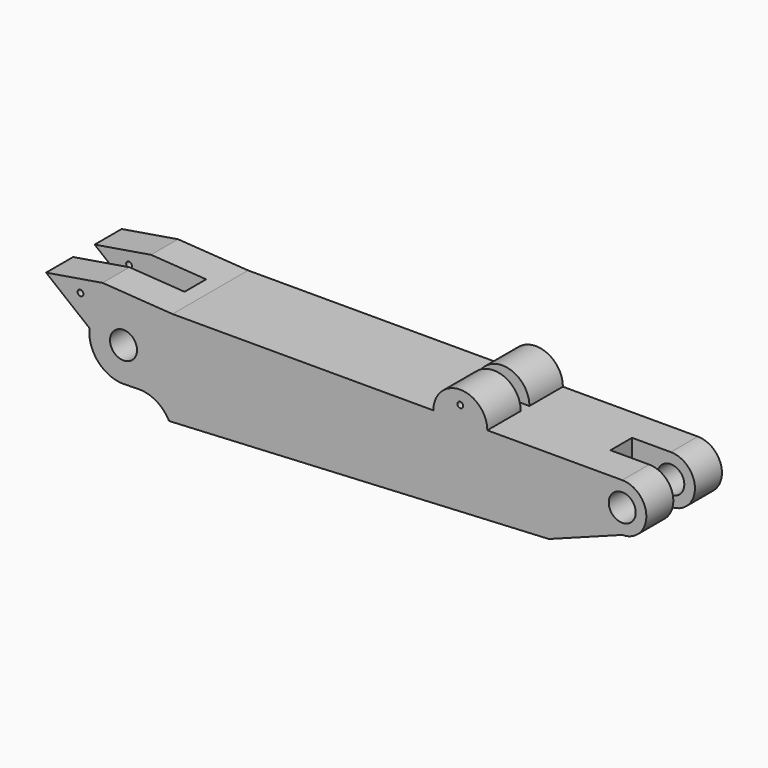
from build123d import *

# Parameters (mm, degrees)
F1_R          = 10
F1_R_2        = 2.125
F2_DEPTH      = 70
F3_W          = 130.2564469211
F3_H          = 20
F3_W_2        = 25.4596173763
F3_W_3        = 28.8759171963
F4_DEPTH      = 100
F4_DEPTH_BACK = 100
F5_R          = 2.125
F6_DEPTH      = 70
F9_DEPTH      = 4


with BuildPart() as f2:
    # F1 (on Front) → F2 (new body)
    with BuildSketch(Plane.XZ):
        with BuildLine():
            Line((333.3, 0), (0, 0))
            Line((0, 0), (-40.7109649446, -7.1784415304))
            ThreePointArc((-40.7109649446, -7.1784415304), (-54.7650426184, -14.7715124925), (-61.4796391993, -29.2658568603))
            ThreePointArc((-61.4796391993, -29.2658568603), (-54.9671092091, -49.2553101365), (-35.6024128261, -57.4406521057))
            Line((-35.6024128261, -57.4406521057), (-25.606345873, -57.1602141095))
            ThreePointArc((-25.606345873, -57.1602141095), (-12.1544941746, -60.6052272274), (-2.5623294895, -70.6456856906))
            Line((-2.5623294895, -70.6456856906), (278.9276717153, -56.0849576382))
            Line((278.9276717153, -56.0849576382), (333.3, -35.7395332009))
            ThreePointArc((333.3, -35.7395332009), (351.1697666005, -17.8697666005), (333.3, 0))
        make_face()
        with Locations((-36.3127197699, -32.1221294279)):
            Circle(F1_R, mode=Mode.SUBTRACT)
        with Locations((333.3, -17.8697666005)):
            Circle(F1_R, mode=Mode.SUBTRACT)
        with BuildLine():
            Line((-40.7109649446, -7.1784415304), (0, 0))
            Line((0, 0), (-51.8790856004, 3.4624293912))
            Line((-51.8790856004, 3.4624293912), (-93.7052443624, -3.4624293912))
            Line((-93.7052443624, -3.4624293912), (-61.4796391993, -29.2658568603))
            ThreePointArc((-61.4796391993, -29.2658568603), (-54.7650426184, -14.7715124925), (-40.7109649446, -7.1784415304))
        make_face()
        with Locations((-68.2217553258, -8.4483278915)):
            Circle(F1_R_2, mode=Mode.SUBTRACT)
    extrude(amount=F2_DEPTH)

    # F3 (on Top) → F4 (cut, two sides)
    with BuildSketch(Plane.XY) as f4_sk:
        with Locations((-76.2078319233, -35)):
            Rectangle(F3_W, F3_H)
        with Locations((346.1741060019, -35)):
            Rectangle(F3_W_2, F3_H)
        with Locations((319.0063387156, -35)):
            Rectangle(F3_W_3, F3_H)
    extrude(amount=F4_DEPTH, mode=Mode.SUBTRACT)
    extrude(f4_sk.sketch, amount=-F4_DEPTH_BACK, mode=Mode.SUBTRACT)

    # F5 (on Front) → F6 (join)
    with BuildSketch(Plane.XZ):
        with BuildLine():
            Line((213.3, 0), (233.3, 0))
            ThreePointArc((233.3, 0), (213.3, 20), (193.3, 0))
            Line((193.3, 0), (213.3, 0))
        make_face()
        with Locations((213.3, 10)):
            Circle(F5_R, mode=Mode.SUBTRACT)
    extrude(amount=F6_DEPTH)

    # F8 (on offset) → F9 (cut, symmetric)
    with BuildSketch(Plane.XZ.offset(35)):
        with BuildLine():
            Line((193.3, 0), (233.3, 0))
            ThreePointArc((233.3, 0), (213.3, 20), (193.3, 0))
        make_face()
    extrude(amount=F9_DEPTH, both=True, mode=Mode.SUBTRACT)


solid = f2.part
